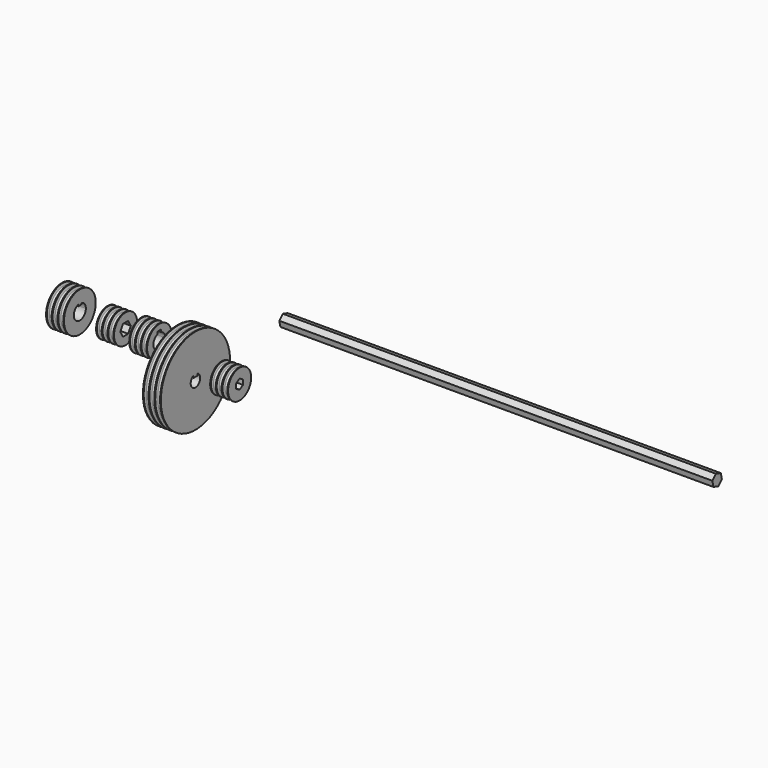
from build123d import *

# Parameters (mm, degrees)
F1_DEPTH  = 381
F6_DEPTH  = 25.4
F8_DEPTH  = 25.4
F11_DEPTH = 45.5057139726
F13_DEPTH = 15.7337601514
F16_DEPTH = 15.7337601514


with BuildPart() as f1:
    # F0 (on Right) → F1 (new body)
    with BuildSketch(Plane.YZ):
        Polygon((62.7180877117, 16.7866829661), (57.4507507882, 18.3668844514), (53.4485876971, 14.595337608), (54.7137615295, 9.2435892793), (59.981098453, 7.663387794), (63.9832615442, 11.4349346374), align=None)
    extrude(amount=F1_DEPTH)


with BuildPart() as f3:
    # F2 (on Front) → F3 (revolve)
    with BuildSketch(Plane.XZ):
        with BuildLine():
            ThreePointArc((-42.3981334515, 15.8484723679), (-43.915023389, 14.7291616112), (-45.4319133265, 15.8484723679))
            Line((-45.4319133265, 15.8484723679), (-46.066403389, 17.9041616112))
            Line((-46.066403389, 17.9041616112), (-46.701403389, 17.9041616112))
            Line((-46.701403389, 17.9041616112), (-46.701403389, -20.1958383888))
            Line((-46.701403389, -20.1958383888), (-30.9686432376, -20.1958383888))
            Line((-30.9686432376, -20.1958383888), (-30.9686432376, 17.9041616112))
            Line((-30.9686432376, 17.9041616112), (-31.6036432376, 17.9041616112))
            Line((-31.6036432376, 17.9041616112), (-32.2381333001, 15.8484723679))
            ThreePointArc((-32.2381333001, 15.8484723679), (-33.7550232376, 14.7291616112), (-35.2719131751, 15.8484723679))
            Line((-35.2719131751, 15.8484723679), (-35.9064032376, 17.9041616112))
            Line((-35.9064032376, 17.9041616112), (-36.6836433133, 17.9041616112))
            Line((-36.6836433133, 17.9041616112), (-37.3181333758, 15.8484723679))
            ThreePointArc((-37.3181333758, 15.8484723679), (-38.8350233133, 14.7291616112), (-40.3519132508, 15.8484723679))
            Line((-40.3519132508, 15.8484723679), (-40.9864033133, 17.9041616112))
            Line((-40.9864033133, 17.9041616112), (-41.763643389, 17.9041616112))
            Line((-41.763643389, 17.9041616112), (-42.3981334515, 15.8484723679))
        make_face()
    revolve(axis=Axis((-38.8350233133, 0, -20.1958383888), (1, 0, 0)))

    # F7 (on face) → F8 (cut)
    with BuildSketch(Plane.YZ.offset(-30.9686432376)):
        with BuildLine():
            Line((-2, -17.1958383888), (-2, -15.3373904885))
            ThreePointArc((-2, -15.3373904885), (0, -25.4498383888), (2, -15.3373904885))
            Line((2, -15.3373904885), (2, -17.1958383888))
            Line((2, -17.1958383888), (-2, -17.1958383888))
        make_face()
    extrude(amount=-F8_DEPTH, mode=Mode.SUBTRACT)


with BuildPart() as f4:
    # F2 (on Front) → F4 (revolve)
    with BuildSketch(Plane.XZ):
        with BuildLine():
            ThreePointArc((-3.5631101382, 0.438608541), (-5.0800000757, -0.6807022157), (-6.5968900132, 0.438608541))
            Line((-6.5968900132, 0.438608541), (-7.2313800757, 2.4942977843))
            Line((-7.2313800757, 2.4942977843), (-7.8663800757, 2.4942977843))
            Line((-7.8663800757, 2.4942977843), (-7.8663800757, -10.2057022157))
            Line((-7.8663800757, -10.2057022157), (7.8663800757, -10.2057022157))
            Line((7.8663800757, -10.2057022157), (7.8663800757, 2.4942977843))
            Line((7.8663800757, 2.4942977843), (7.2313800757, 2.4942977843))
            Line((7.2313800757, 2.4942977843), (6.5968900132, 0.438608541))
            ThreePointArc((6.5968900132, 0.438608541), (5.0800000757, -0.6807022157), (3.5631101382, 0.438608541))
            Line((3.5631101382, 0.438608541), (2.9286200757, 2.4942977843))
            Line((2.9286200757, 2.4942977843), (2.15138, 2.4942977843))
            Line((2.15138, 2.4942977843), (1.5168899375, 0.438608541))
            ThreePointArc((1.5168899375, 0.438608541), (0, -0.6807022157), (-1.5168899375, 0.438608541))
            Line((-1.5168899375, 0.438608541), (-2.15138, 2.4942977843))
            Line((-2.15138, 2.4942977843), (-2.9286200757, 2.4942977843))
            Line((-2.9286200757, 2.4942977843), (-3.5631101382, 0.438608541))
        make_face()
    revolve(axis=Axis((0, 0, -10.2057022157), (1, 0, 0)))

    # F5 (on face) → F6 (cut)
    with BuildSketch(Plane.YZ.offset(7.8663800757)):
        Polygon((3.7308752467, -7.9987606153), (-0.0458298672, -5.8711986736), (-3.7767051139, -8.0781402739), (-3.7308752467, -12.412643816), (0.0458298672, -14.5402057578), (3.7767051139, -12.3332641575), align=None)
    extrude(amount=-F6_DEPTH, mode=Mode.SUBTRACT)


with BuildPart() as f9:
    # F2 (on Front) → F9 (revolve)
    with BuildSketch(Plane.XZ):
        with BuildLine():
            ThreePointArc((-74.1469826353, 11.4380607567), (-75.6638725728, 10.31875), (-77.1807625103, 11.4380607567))
            Line((-77.1807625103, 11.4380607567), (-77.8152525728, 13.49375))
            Line((-77.8152525728, 13.49375), (-78.4502525728, 13.49375))
            Line((-78.4502525728, 13.49375), (-78.4502525728, 0))
            Line((-78.4502525728, 0), (-62.7174924214, 0))
            Line((-62.7174924214, 0), (-62.7174924214, 13.49375))
            Line((-62.7174924214, 13.49375), (-63.3524924214, 13.49375))
            Line((-63.3524924214, 13.49375), (-63.9869824839, 11.4380607567))
            ThreePointArc((-63.9869824839, 11.4380607567), (-65.5038724214, 10.31875), (-67.0207623589, 11.4380607567))
            Line((-67.0207623589, 11.4380607567), (-67.6552524214, 13.49375))
            Line((-67.6552524214, 13.49375), (-68.4324924971, 13.49375))
            Line((-68.4324924971, 13.49375), (-69.0669825596, 11.4380607567))
            ThreePointArc((-69.0669825596, 11.4380607567), (-70.5838724971, 10.31875), (-72.1007624346, 11.4380607567))
            Line((-72.1007624346, 11.4380607567), (-72.7352524971, 13.49375))
            Line((-72.7352524971, 13.49375), (-73.5124925728, 13.49375))
            Line((-73.5124925728, 13.49375), (-74.1469826353, 11.4380607567))
        make_face()
    revolve(axis=Axis((-70.5838724971, 0, 0), (1, 0, 0)))

    # F10 (on face) → F11 (cut, through all)
    with BuildSketch(Plane.YZ.offset(-62.7174924214)):
        with BuildLine():
            ThreePointArc((-1.8415, 6.3420575329), (-3.965573729, -5.2808182131), (6.604, 0))
            ThreePointArc((6.604, 0), (5.2808182131, 3.965573729), (1.8415, 6.3420575329))
            Line((1.8415, 6.3420575329), (1.8415, 4.7625))
            Line((1.8415, 4.7625), (-1.8415, 4.7625))
            Line((-1.8415, 4.7625), (-1.8415, 6.3420575329))
        make_face()
        with BuildLine():
            Line((1.8415, 4.7625), (1.8415, 6.3420575329))
            ThreePointArc((1.8415, 6.3420575329), (0, 6.604), (-1.8415, 6.3420575329))
            Line((-1.8415, 6.3420575329), (-1.8415, 4.7625))
            Line((-1.8415, 4.7625), (1.8415, 4.7625))
        make_face()
        with BuildLine():
            ThreePointArc((-1.8415, 6.3420575329), (0, 6.604), (1.8415, 6.3420575329))
            Line((1.8415, 6.3420575329), (1.8415, 8.4455))
            Line((1.8415, 8.4455), (-1.8415, 8.4455))
            Line((-1.8415, 8.4455), (-1.8415, 6.3420575329))
        make_face()
    extrude(amount=-F11_DEPTH, mode=Mode.SUBTRACT)


with BuildPart() as f9b:
    # F2 (on Front) → F9, piece 2 (revolve)
    with BuildSketch(Plane.XZ):
        with BuildLine():
            ThreePointArc((-103.9189364565, 10.6443107567), (-105.435826394, 9.525), (-106.9527163315, 10.6443107567))
            Line((-106.9527163315, 10.6443107567), (-107.587206394, 12.7))
            Line((-107.587206394, 12.7), (-108.222206394, 12.7))
            Line((-108.222206394, 12.7), (-108.222206394, 0))
            Line((-108.222206394, 0), (-92.4894462426, 0))
            Line((-92.4894462426, 0), (-92.4894462426, 12.7))
            Line((-92.4894462426, 12.7), (-93.1244462426, 12.7))
            Line((-93.1244462426, 12.7), (-93.7589363051, 10.6443107567))
            ThreePointArc((-93.7589363051, 10.6443107567), (-95.2758262426, 9.525), (-96.7927161801, 10.6443107567))
            Line((-96.7927161801, 10.6443107567), (-97.4272062426, 12.7))
            Line((-97.4272062426, 12.7), (-98.2044463183, 12.7))
            Line((-98.2044463183, 12.7), (-98.8389363808, 10.6443107567))
            ThreePointArc((-98.8389363808, 10.6443107567), (-100.3558263183, 9.525), (-101.8727162558, 10.6443107567))
            Line((-101.8727162558, 10.6443107567), (-102.5072063183, 12.7))
            Line((-102.5072063183, 12.7), (-103.284446394, 12.7))
            Line((-103.284446394, 12.7), (-103.9189364565, 10.6443107567))
        make_face()
    revolve(axis=Axis((-70.5838724971, 0, 0), (1, 0, 0)))

    # F12 (on face) → F13 (cut, through all)
    with BuildSketch(Plane.YZ.offset(-92.4894462426)):
        Polygon((2.8962776254, 5.0165), (-2.8962776254, 5.0165), (-5.7925552508, 0), (-2.8962776254, -5.0165), (2.8962776254, -5.0165), (5.7925552508, 0), align=None)
    extrude(amount=-F13_DEPTH, mode=Mode.SUBTRACT)


with BuildPart() as f14:
    # F2 (on Front) → F14 (revolve)
    with BuildSketch(Plane.XZ):
        with BuildLine():
            ThreePointArc((-144.1135000241, 15.4068107567), (-145.6303899616, 14.2875), (-147.1472798991, 15.4068107567))
            Line((-147.1472798991, 15.4068107567), (-147.7817699616, 17.4625))
            Line((-147.7817699616, 17.4625), (-148.4167699616, 17.4625))
            Line((-148.4167699616, 17.4625), (-148.4167699616, 0))
            Line((-148.4167699616, 0), (-132.6840098102, 0))
            Line((-132.6840098102, 0), (-132.6840098102, 17.4625))
            Line((-132.6840098102, 17.4625), (-133.3190098102, 17.4625))
            Line((-133.3190098102, 17.4625), (-133.9534998727, 15.4068107567))
            ThreePointArc((-133.9534998727, 15.4068107567), (-135.4703898102, 14.2875), (-136.9872797477, 15.4068107567))
            Line((-136.9872797477, 15.4068107567), (-137.6217698102, 17.4625))
            Line((-137.6217698102, 17.4625), (-138.3990098859, 17.4625))
            Line((-138.3990098859, 17.4625), (-139.0334999484, 15.4068107567))
            ThreePointArc((-139.0334999484, 15.4068107567), (-140.5503898859, 14.2875), (-142.0672798234, 15.4068107567))
            Line((-142.0672798234, 15.4068107567), (-142.7017698859, 17.4625))
            Line((-142.7017698859, 17.4625), (-143.4790099616, 17.4625))
            Line((-143.4790099616, 17.4625), (-144.1135000241, 15.4068107567))
        make_face()
    revolve(axis=Axis((-140.5503898859, 0, 0), (1, 0, 0)))

    # F15 (on face) → F16 (cut, through all)
    with BuildSketch(Plane.YZ.offset(-132.6840098102)):
        with BuildLine():
            ThreePointArc((-1.5875, 6.4103556649), (-4.0699487712, -5.2008011883), (6.604, 0))
            ThreePointArc((6.604, 0), (5.2008011883, 4.0699487712), (1.5875, 6.4103556649))
            Line((1.5875, 6.4103556649), (1.5875, 5.0165))
            Line((1.5875, 5.0165), (-1.5875, 5.0165))
            Line((-1.5875, 5.0165), (-1.5875, 6.4103556649))
        make_face()
    extrude(amount=-F16_DEPTH, mode=Mode.SUBTRACT)


solid = Compound([f1.part, f3.part, f4.part, f9.part, f9b.part, f14.part])
